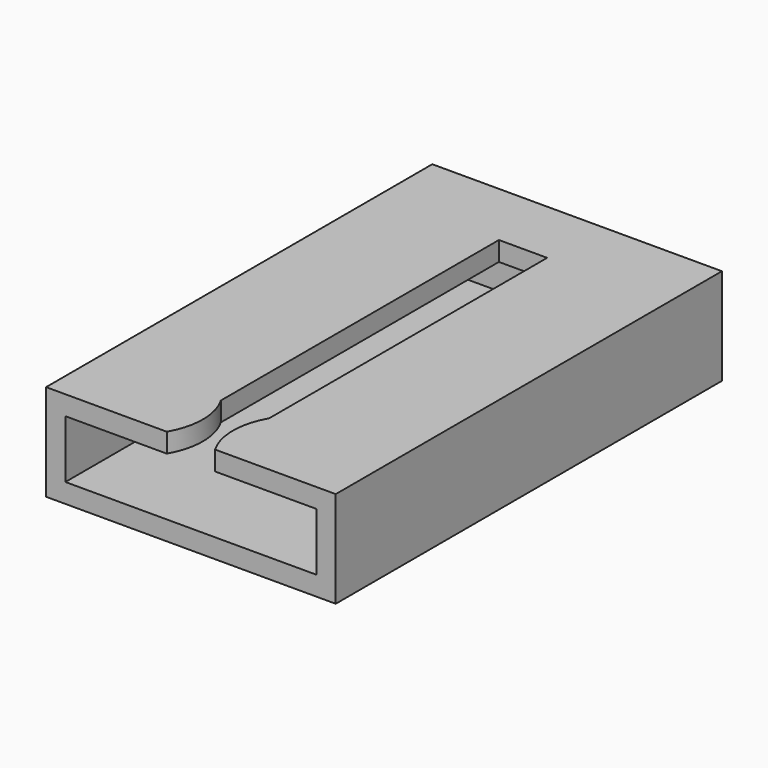
from build123d import *

# Parameters (mm, degrees)
F0_W     = 38.1
F0_H     = 63.5
F1_DEPTH = 12.7
F2_T     = -2.54
F3_W     = 6.35
F3_H     = 45.72
F4_DEPTH = 2.54


with BuildPart() as f1:
    # F0 (on Top) → F1 (new body)
    with BuildSketch(Plane.XY):
        Rectangle(F0_W, F0_H)
    extrude(amount=F1_DEPTH)

    # F2
    f2_openings = [f1.faces().sort_by_distance(p)[0] for p in [
        (0, -31.75, 6.35),
    ]]
    offset(amount=F2_T, openings=f2_openings)

    # F3 (on face) → F4 (cut, through all)
    with BuildSketch(Plane.XY.offset(12.7)):
        Rectangle(F3_W, F3_H)
        with BuildLine():
            ThreePointArc((3.175, -31.75), (1.976942, -27.305), (3.175, -22.86))
            Line((3.175, -22.86), (-3.175, -22.86))
            ThreePointArc((-3.175, -22.86), (-1.976942, -27.305), (-3.175, -31.75))
            Line((-3.175, -31.75), (3.175, -31.75))
        make_face()
    extrude(amount=-F4_DEPTH, mode=Mode.SUBTRACT)


solid = f1.part
